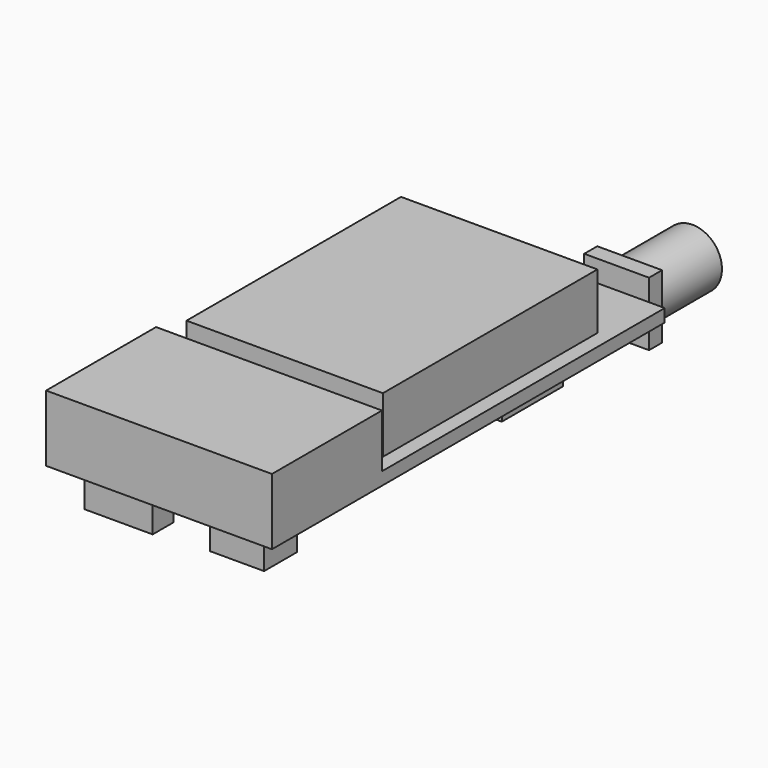
from build123d import *

# Parameters (mm, degrees)
F0_W          = 20
F0_H          = 27.3
F0_W_2        = 23
F0_H_2        = 14
F0_W_3        = 6.929286
F0_H_3        = 2.628351
F0_W_4        = 5.49564
F0_H_4        = 4.181466
F1_DEPTH      = 1.3
F0_W_5        = 4.898288
F0_H_5        = 5.973523
F0_W_6        = 5.017759
F0_H_6        = 7.765578
F2_DEPTH      = 7
F3_DEPTH      = 6.75
F0_W_7        = 6.6
F0_H_7        = 1.66
F4_DEPTH      = 3.5
F4_DEPTH_BACK = 3
F5_DEPTH      = 3.5
F6_R          = 3
F7_DEPTH      = 8


with BuildPart() as f1:
    # F0 (on Top) → F1 (new body)
    with BuildSketch(Plane.XY):
        Polygon((3.3, 25), (-11.5, 25), (-11.5, -11), (11.5, -11), (11.5, 25), (9.9, 25), align=None)
        with Locations((0, 4.65)):
            Rectangle(F0_W, F0_H, mode=Mode.SUBTRACT)
        with Locations((0, -18)):
            Rectangle(F0_W_2, F0_H_2)
        with Locations((-5.170625, -22.364168)):
            Rectangle(F0_W_3, F0_H_3, mode=Mode.SUBTRACT)
        with Locations((6.418009, -20.990259)):
            Rectangle(F0_W_4, F0_H_4, mode=Mode.SUBTRACT)
    extrude(amount=F1_DEPTH)

    # F0 (on Top) → F2 (join)
    with BuildSketch(Plane.XY):
        with Locations((0, 4.65)):
            Rectangle(F0_W, F0_H)
        with Locations((-5.827712, 3.919329)):
            Rectangle(F0_W_5, F0_H_5, mode=Mode.SUBTRACT)
        with Locations((5.342776, 12.700408)):
            Rectangle(F0_W_6, F0_H_6, mode=Mode.SUBTRACT)
        with Locations((-5.827712, 3.919329)):
            Rectangle(F0_W_5, F0_H_5)
        with Locations((5.342776, 12.700408)):
            Rectangle(F0_W_6, F0_H_6)
    extrude(amount=F2_DEPTH)

    # F0 (on Top) → F3 (join)
    with BuildSketch(Plane.XY):
        with Locations((0, -18)):
            Rectangle(F0_W_2, F0_H_2)
        with Locations((-5.170625, -22.364168)):
            Rectangle(F0_W_3, F0_H_3, mode=Mode.SUBTRACT)
        with Locations((6.418009, -20.990259)):
            Rectangle(F0_W_4, F0_H_4, mode=Mode.SUBTRACT)
        with Locations((6.418009, -20.990259)):
            Rectangle(F0_W_4, F0_H_4)
        with Locations((-5.170625, -22.364168)):
            Rectangle(F0_W_3, F0_H_3)
    extrude(amount=F3_DEPTH)

    # F0 (on Top) → F4 (join, two sides)
    with BuildSketch(Plane.XY) as f4_sk:
        with Locations((6.6, 25.83)):
            Rectangle(F0_W_7, F0_H_7)
    extrude(amount=F4_DEPTH)
    extrude(f4_sk.sketch, amount=-F4_DEPTH_BACK)

    # F0 (on Top) → F5 (join)
    with BuildSketch(Plane.XY):
        with Locations((5.342776, 12.700408)):
            Rectangle(F0_W_6, F0_H_6)
        with Locations((-5.827712, 3.919329)):
            Rectangle(F0_W_5, F0_H_5)
        with Locations((6.418009, -20.990259)):
            Rectangle(F0_W_4, F0_H_4)
        with Locations((-5.170625, -22.364168)):
            Rectangle(F0_W_3, F0_H_3)
    extrude(amount=-F5_DEPTH)

    # F6 (on face) → F7 (join)
    with BuildSketch(Plane(origin=(0, 26.66, 0), x_dir=(-1, 0, 0), z_dir=(0, 1, 0))):
        with Locations((-6.6, 0.25)):
            Circle(F6_R)
    extrude(amount=F7_DEPTH)


solid = f1.part
